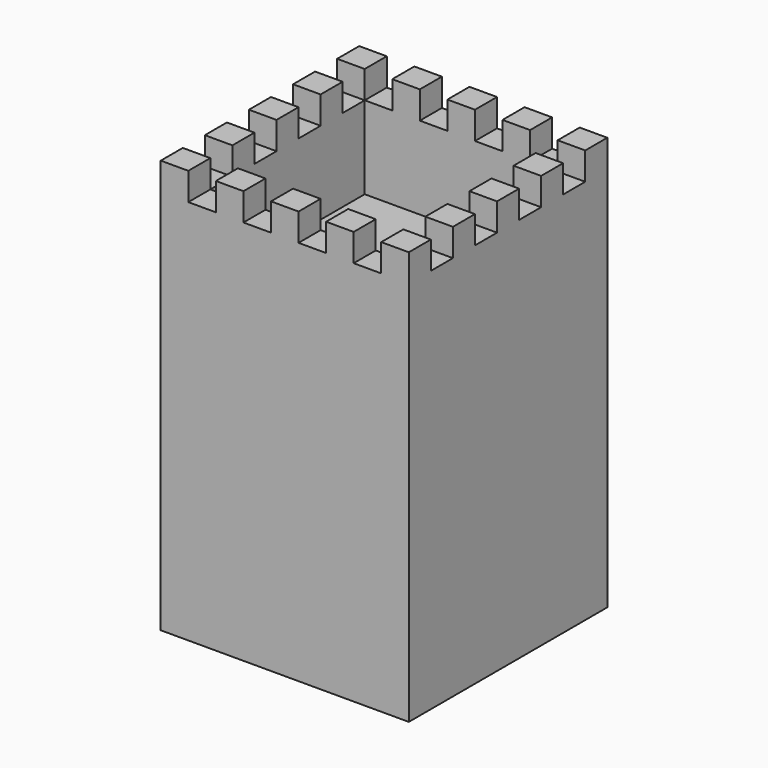
from build123d import *

# Parameters (mm, degrees)
BOX004_W                 = 110
BOX004_H                 = 10
BOX004_DEPTH             = 10
ARRAY001_Y_COUNT         = 4
ARRAY001_Y_PITCH         = 20
ARRAY001_PLACEMENT_ANGLE = 90
BOX003_W                 = 110
BOX003_H                 = 10
BOX003_DEPTH             = 10
ARRAY_Y_COUNT            = 4
ARRAY_Y_PITCH            = 20
BOX002_W                 = 70
BOX002_H                 = 70
BOX002_DEPTH             = 110
BOX_W                    = 90
BOX_H                    = 90
BOX_DEPTH                = 150


with BuildPart() as obj1:
    # Box004 → Box004 (new body)
    with BuildSketch(Plane.XY):
        with Locations((55, 5)):
            Rectangle(BOX004_W, BOX004_H)
    extrude(amount=BOX004_DEPTH)

    # Array001 Y: obj1 ×4


with BuildPart() as obj1_1:
    add(obj1.part)
    with Locations(*[(0, i * ARRAY001_Y_PITCH, 0) for i in range(1, ARRAY001_Y_COUNT)]):
        add(obj1.part)


with BuildPart() as obj1_2:
    # Array001 placement: moved
    add(obj1_1.part.moved(Location((80, -10, 140))).rotate(Axis((80, -10, 140), (0, 0, 1)), ARRAY001_PLACEMENT_ANGLE))


with BuildPart() as barres:
    # Box003 → Box003 (new body)
    with BuildSketch(Plane.XY):
        with Locations((55, 5)):
            Rectangle(BOX003_W, BOX003_H)
    extrude(amount=BOX003_DEPTH)

    # Array Y: Barres ×4


with BuildPart() as barres_1:
    add(barres.part)
    with Locations(*[(0, i * ARRAY_Y_PITCH, 0) for i in range(1, ARRAY_Y_COUNT)]):
        add(barres.part)


with BuildPart() as barres_2:
    # Array placement: moved
    add(barres_1.part.moved(Location((-10, 10, 140))))

    # Fusion: union obj1
    add(obj1_2.part)


with BuildPart() as cub002:
    # Box002 → Box002 (new body)
    with BuildSketch(Plane(origin=(10, 10, 110), x_dir=(1, 0, 0), z_dir=(0, 0, 1))):
        with Locations((35, 35)):
            Rectangle(BOX002_W, BOX002_H)
    extrude(amount=BOX002_DEPTH)


with BuildPart() as obj2:
    # Box → Box (new body)
    with BuildSketch(Plane.XY):
        with Locations((45, 45)):
            Rectangle(BOX_W, BOX_H)
    extrude(amount=BOX_DEPTH)

    # Cut: cut Cub002
    add(cub002.part, mode=Mode.SUBTRACT)

    # Cut001: cut Barres
    add(barres_2.part, mode=Mode.SUBTRACT)


solid = obj2.part
